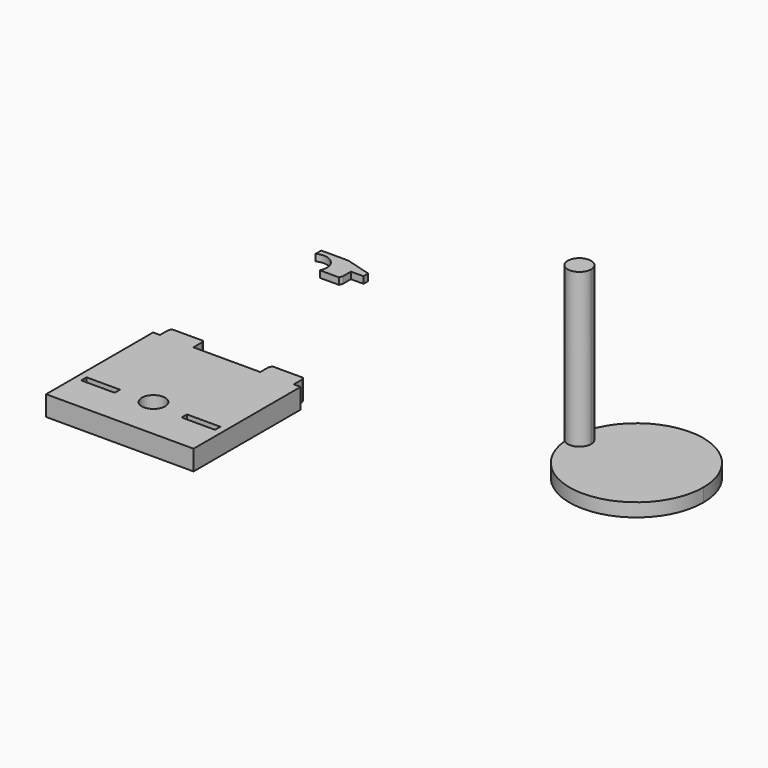
from build123d import *

# Parameters (mm, degrees)
F3_DEPTH = 1
F2_W     = 5
F2_H     = 1
F2_R     = 1.75
F4_DEPTH = 3
F5_DEPTH = 2
F6_DEPTH = 25


with BuildPart() as f3:
    # F2 (on Top) → F3 (new body)
    with BuildSketch(Plane.XY):
        with BuildLine():
            Line((-11.0257832855, 6), (-11.0257832855, 4.9389316823))
            ThreePointArc((-11.0257832855, 4.9389316823), (-8.8699336118, 4.8799841901), (-7.808669225, 3.0025176727))
            ThreePointArc((-7.808669225, 3.0025176727), (-7.8702263455, 2.4867708881), (-8.0514392795, 2))
            Line((-8.0514392795, 2), (-5.2, 2))
            Line((-5.2, 2), (-5, 2.5))
            Line((-5, 2.5), (-5, 4))
            Line((-5, 4), (-3.1179972207, 4))
            Line((-3.1179972207, 4), (-3.1179972207, 4.8908563488))
            Line((-3.1179972207, 4.8908563488), (-7, 6))
            Line((-7, 6), (-11.0257832855, 6))
        make_face()
    extrude(amount=F3_DEPTH)


with BuildPart() as f4:
    # F2 (on Top) → F4 (new body)
    with BuildSketch(Plane.XY):
        Polygon((-5, -25.4367285371), (-5, -23.9367285371), (-5.2, -23.4367285371), (-9.8, -23.4367285371), (-10, -23.9367285371), (-10, -25.4367285371), (-11.0257832855, -25.4367285371), (-11.0257832855, -45.4367285371), (0, -45.4367285371), (11.0257832855, -45.4367285371), (11.0257832855, -25.4367285371), (10, -25.4367285371), (10, -23.9367285371), (9.8, -23.4367285371), (5.2, -23.4367285371), (5, -23.9367285371), (5, -25.4367285371), (0, -25.4367285371), align=None)
        with Locations((-7.5, -39.6482457221)):
            Rectangle(F2_W, F2_H, mode=Mode.SUBTRACT)
        with Locations((0, -39.1482457221)):
            Circle(F2_R, mode=Mode.SUBTRACT)
        with Locations((7.5, -39.6482457221)):
            Rectangle(F2_W, F2_H, mode=Mode.SUBTRACT)
    extrude(amount=F4_DEPTH)


with BuildPart() as f5:
    # F2 (on Top) → F5 (new body)
    with BuildSketch(Plane.XY):
        with BuildLine():
            ThreePointArc((45.3464222997, -14.0346676926), (44.4012885239, -12.4807402937), (42.5867761726, -12.6052920604))
            ThreePointArc((42.5867761726, -12.6052920604), (42.431044583, -13.9845533947), (42.4677965185, -15.3720920254))
            ThreePointArc((42.4677965185, -15.3720920254), (44.3337841115, -15.6217397006), (45.3464222997, -14.0346676926))
        make_face()
        with BuildLine():
            ThreePointArc((42.4677965185, -15.3720920254), (52.9013175639, -24.402679631), (62.4218112592, -14.4141825616))
            ThreePointArc((62.4218112592, -14.4141825616), (53.3300097877, -4.4555091845), (42.5867761726, -12.6052920604))
            ThreePointArc((42.5867761726, -12.6052920604), (44.4012885239, -12.4807402937), (45.3464222997, -14.0346676926))
            ThreePointArc((45.3464222997, -14.0346676926), (44.3337841115, -15.6217397006), (42.4677965185, -15.3720920254))
        make_face()
    extrude(amount=F5_DEPTH)


with BuildPart() as f6:
    # F2 (on Top) → F6 (new body)
    with BuildSketch(Plane.XY):
        with BuildLine():
            ThreePointArc((42.4677965185, -15.3720920254), (42.431044583, -13.9845533947), (42.5867761726, -12.6052920604))
            ThreePointArc((42.5867761726, -12.6052920604), (41.8480381314, -13.9594825884), (42.4677965185, -15.3720920254))
        make_face()
        with BuildLine():
            ThreePointArc((45.3464222997, -14.0346676926), (44.4012885239, -12.4807402937), (42.5867761726, -12.6052920604))
            ThreePointArc((42.5867761726, -12.6052920604), (42.431044583, -13.9845533947), (42.4677965185, -15.3720920254))
            ThreePointArc((42.4677965185, -15.3720920254), (44.3337841115, -15.6217397006), (45.3464222997, -14.0346676926))
        make_face()
    extrude(amount=F6_DEPTH)


solid = Compound([f3.part, f4.part, f5.part, f6.part])
